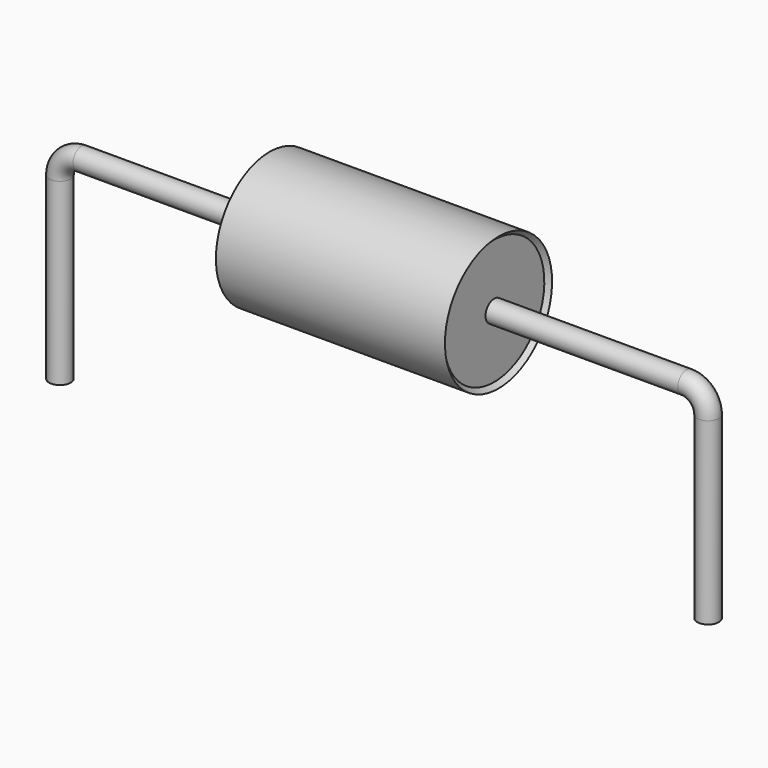
from build123d import *

# Parameters (mm, degrees)
SKETCH_R = 0.25


with BuildPart() as sweep_body:
    # Sweep: sweep along a path in Sketch001
    with BuildLine(Plane.XZ) as sweep_path:
        Line((0, -3), (0, 1.15))
        ThreePointArc((0, 1.15), (0.146443, 1.50355), (0.499991, 1.65))
        Line((0.499991, 1.65), (14.5, 1.65))
        ThreePointArc((14.5, 1.65), (14.853553, 1.503553), (15, 1.15))
        Line((15, 1.15), (15, -3))
    # Sketch → Sweep (sweep)
    with BuildSketch(Plane.XY.offset(-2)):
        Circle(SKETCH_R)
    sweep(path=sweep_path.line)


with BuildPart() as revolution:
    # Sketch002 → Revolution (revolve)
    with BuildSketch(Plane.XZ):
        Polygon((4.85, 3.2), (10.15, 3.2), (10.05, 3.1), (10.05, 1.65), (4.95, 1.65), (4.95, 3.1), align=None)
    revolve(axis=Axis((7.611803, 0, 1.65), (1, 0, 0)))


solid = Compound([sweep_body.part, revolution.part])
